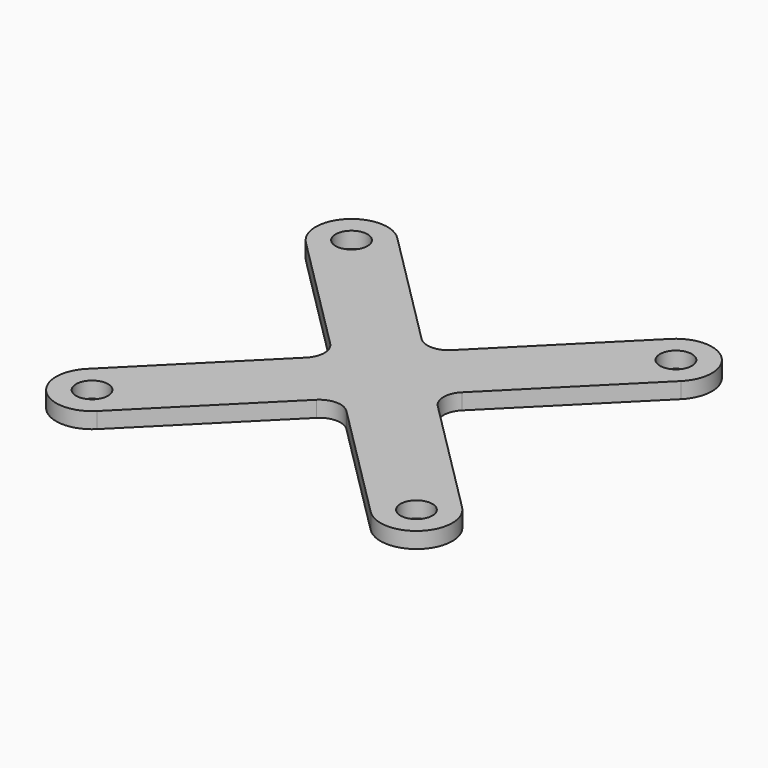
from build123d import *

# Parameters (mm, degrees)
F0_R     = 1.5
F1_DEPTH = 1.5


with BuildPart() as f1:
    # F0 (on Top) → F1 (new body)
    with BuildSketch(Plane.XY):
        with BuildLine():
            ThreePointArc((-12.863515, 17.636485), (-17.636485, 17.636485), (-17.636485, 12.863515))
            Line((-17.636485, 12.863515), (-6.187184, 1.414214))
            ThreePointArc((-6.187184, 1.414214), (-5.601398, 0), (-6.187184, -1.414214))
            Line((-6.187184, -1.414214), (-17.636485, -12.863515))
            ThreePointArc((-17.636485, -12.863515), (-17.636485, -17.636485), (-12.863515, -17.636485))
            Line((-12.863515, -17.636485), (-1.414214, -6.187184))
            ThreePointArc((-1.414214, -6.187184), (0, -5.601398), (1.414214, -6.187184))
            Line((1.414214, -6.187184), (12.863515, -17.636485))
            ThreePointArc((12.863515, -17.636485), (17.636485, -17.636485), (17.636485, -12.863515))
            Line((17.636485, -12.863515), (6.187184, -1.414214))
            ThreePointArc((6.187184, -1.414214), (5.601398, 0), (6.187184, 1.414214))
            Line((6.187184, 1.414214), (17.636485, 12.863515))
            ThreePointArc((17.636485, 12.863515), (17.636485, 17.636485), (12.863515, 17.636485))
            Line((12.863515, 17.636485), (1.414214, 6.187184))
            ThreePointArc((1.414214, 6.187184), (0, 5.601398), (-1.414214, 6.187184))
            Line((-1.414214, 6.187184), (-12.863515, 17.636485))
        make_face()
        with Locations((-15.25, -15.25)):
            Circle(F0_R, mode=Mode.SUBTRACT)
        with Locations((15.25, -15.25)):
            Circle(F0_R, mode=Mode.SUBTRACT)
        with Locations((-15.25, 15.25)):
            Circle(F0_R, mode=Mode.SUBTRACT)
        with Locations((15.25, 15.25)):
            Circle(F0_R, mode=Mode.SUBTRACT)
    extrude(amount=F1_DEPTH)


solid = f1.part
